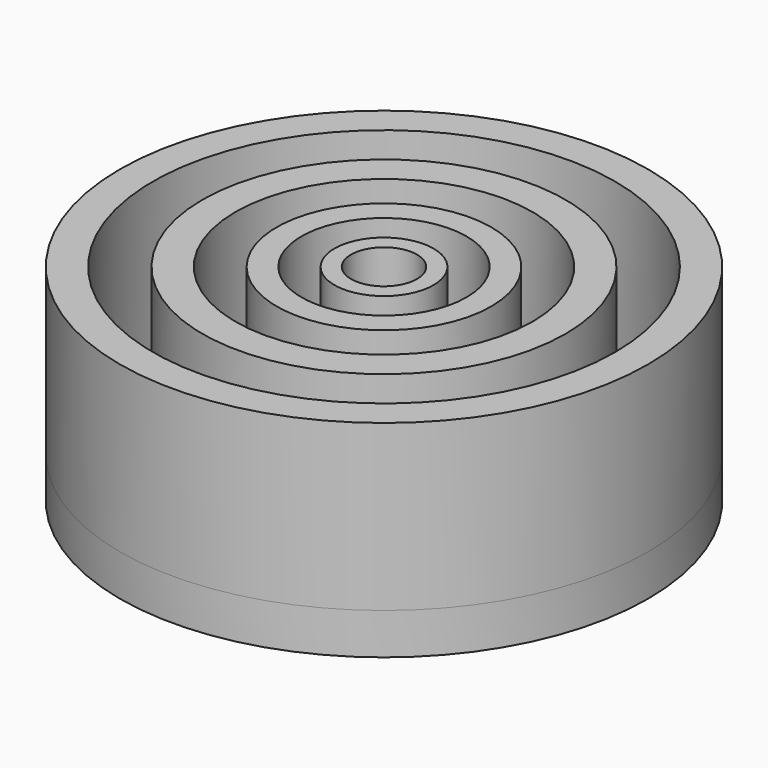
from build123d import *

# Parameters (mm, degrees)
F0_R     = 160
F0_R_2   = 140
F1_DEPTH = 50
F0_R_3   = 65
F0_R_4   = 50
F0_R_5   = 30
F0_R_6   = 20
F0_R_7   = 110
F0_R_8   = 90
F3_R     = 160
F4_DEPTH = 25


with BuildPart() as f1:
    # F0 (on Top) → F1 (new body, symmetric)
    with BuildSketch(Plane.XY):
        Circle(F0_R)
        Circle(F0_R_2, mode=Mode.SUBTRACT)
    extrude(amount=F1_DEPTH, both=True)



with BuildPart() as f1b:
    # F0 (on Top) → F1, piece 2 (new body, symmetric)
    with BuildSketch(Plane.XY):
        Circle(F0_R_3)
        Circle(F0_R_4, mode=Mode.SUBTRACT)
    extrude(amount=F1_DEPTH, both=True)


with BuildPart() as f1c:
    # F0 (on Top) → F1, piece 3 (new body, symmetric)
    with BuildSketch(Plane.XY):
        Circle(F0_R_5)
        Circle(F0_R_6, mode=Mode.SUBTRACT)
    extrude(amount=F1_DEPTH, both=True)


with BuildPart() as f1d:
    # F0 (on Top) → F1, piece 4 (new body, symmetric)
    with BuildSketch(Plane.XY):
        Circle(F0_R_7)
        Circle(F0_R_8, mode=Mode.SUBTRACT)
    extrude(amount=F1_DEPTH, both=True)


with BuildPart() as f1_1:
    add(f1.part)

    add(f1b.part)  # F4 merges F1b

    add(f1c.part)  # F4 merges F1c

    add(f1d.part)  # F4 merges F1d
    # F3 (on face) → F4 (join)
    with BuildSketch(Plane(origin=(0, 0, -50), x_dir=(1, 0, 0), z_dir=(0, 0, -1))):
        Circle(F3_R)
    extrude(amount=F4_DEPTH)


solid = f1_1.part
